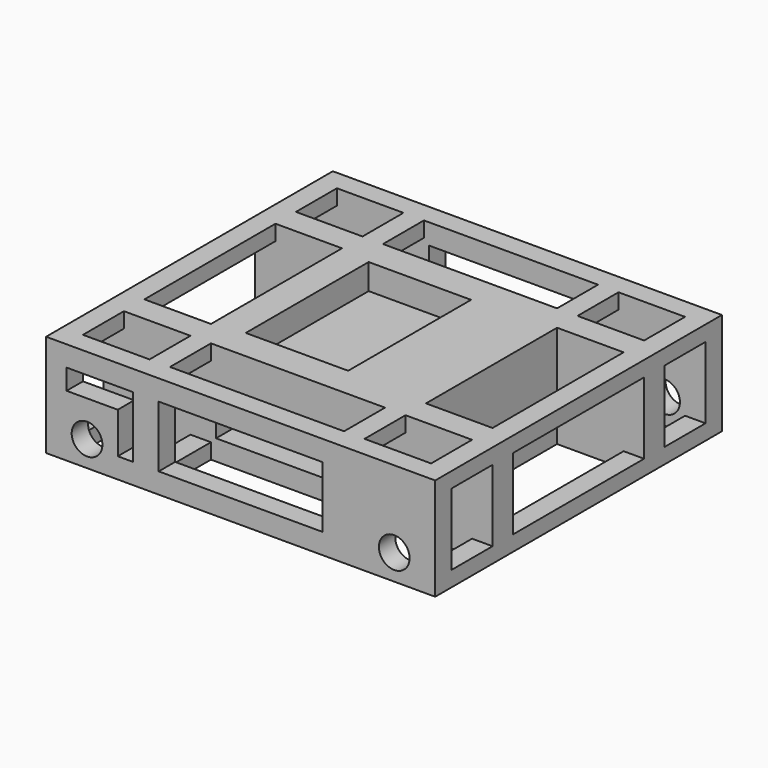
from build123d import *

# Parameters (mm, degrees)
F0_W      = 380
F0_H      = 350
F1_DEPTH  = 100
F2_W      = 170
F2_H      = 50
F2_W_2    = 65
F2_H_2    = 160
F3_DEPTH  = 100.001
F4_W      = 50
F4_H      = 70
F4_W_2    = 160
F5_DEPTH  = 380.001
F7_R      = 15
F8_DEPTH  = 25
F9_R      = 15
F10_DEPTH = 25
F11_W     = 160
F11_H     = 60
F12_DEPTH = 25
F13_W     = 160
F13_H     = 60
F14_DEPTH = 25
F15_W     = 160
F15_H     = 160
F16_DEPTH = 25
F17_W     = 210
F17_H     = 210
F18_DEPTH = 40
F19_W     = 100
F19_H     = 150
F20_DEPTH = 25
F21_W     = 160
F21_H     = 25
F22_DEPTH = 350.001
F24_DEPTH = 25


with BuildPart() as f1:
    # F0 (on Top) → F1 (new body)
    with BuildSketch(Plane.XY):
        Rectangle(F0_W, F0_H)
    extrude(amount=F1_DEPTH)

    # F2 (on face) → F3 (cut, through all)
    with BuildSketch(Plane.XY.offset(100)):
        with Locations((0, 130)):
            Rectangle(F2_W, F2_H)
        with Locations((137.5, 130)):
            Rectangle(F2_W_2, F2_H)
        with Locations((137.5, 0)):
            Rectangle(F2_W_2, F2_H_2)
        with Locations((137.5, -130)):
            Rectangle(F2_W_2, F2_H)
        with Locations((0, -130)):
            Rectangle(F2_W, F2_H)
        with Locations((-137.5, -130)):
            Rectangle(F2_W_2, F2_H)
        with Locations((-137.5, 0)):
            Rectangle(F2_W_2, F2_H_2)
        with Locations((-137.5, 130)):
            Rectangle(F2_W_2, F2_H)
    extrude(amount=-F3_DEPTH, mode=Mode.SUBTRACT)

    # F4 (on face) → F5 (cut, through all)
    with BuildSketch(Plane.YZ.offset(190)):
        with Locations((-130, 50)):
            Rectangle(F4_W, F4_H)
        with Locations((0, 50)):
            Rectangle(F4_W_2, F4_H)
        with Locations((130, 50)):
            Rectangle(F4_W, F4_H)
    extrude(amount=-F5_DEPTH, mode=Mode.SUBTRACT)

    # F7 (on face) → F8 (cut)
    with BuildSketch(Plane.XZ.offset(175)):
        with Locations((-150, 25)):
            Circle(F7_R)
        with Locations((150, 25)):
            Circle(F7_R)
    extrude(amount=-F8_DEPTH, mode=Mode.SUBTRACT)

    # F9 (on face) → F10 (cut)
    with BuildSketch(Plane(origin=(0, 175, 0), x_dir=(-1, 0, 0), z_dir=(0, 1, 0))):
        with Locations((-150, 25)):
            Circle(F9_R)
        with Locations((150, 25)):
            Circle(F9_R)
    extrude(amount=-F10_DEPTH, mode=Mode.SUBTRACT)

    # F11 (on face) → F12 (cut)
    with BuildSketch(Plane(origin=(0, 175, 0), x_dir=(-1, 0, 0), z_dir=(0, 1, 0))):
        with Locations((0, 50)):
            Rectangle(F11_W, F11_H)
    extrude(amount=-F12_DEPTH, mode=Mode.SUBTRACT)

    # F13 (on face) → F14 (cut)
    with BuildSketch(Plane.XZ.offset(175)):
        with Locations((0, 50)):
            Rectangle(F13_W, F13_H)
    extrude(amount=-F14_DEPTH, mode=Mode.SUBTRACT)

    # F15 (on face) → F16 (cut)
    with BuildSketch(Plane(origin=(0, 0, 0), x_dir=(1, 0, 0), z_dir=(0, 0, -1))):
        Rectangle(F15_W, F15_H)
    extrude(amount=-F16_DEPTH, mode=Mode.SUBTRACT)

    # F17 (on face) → F18 (join)
    with BuildSketch(Plane(origin=(0, 0, 85), x_dir=(1, 0, 0), z_dir=(0, 0, -1))):
        Rectangle(F17_W, F17_H)
    extrude(amount=F18_DEPTH)

    # F19 (on face) → F20 (cut)
    with BuildSketch(Plane.XY.offset(100)):
        with Locations((-25, 0)):
            Rectangle(F19_W, F19_H)
    extrude(amount=-F20_DEPTH, mode=Mode.SUBTRACT)

    # F21 (on face) → F22 (cut, through all)
    with BuildSketch(Plane(origin=(0, 175, 0), x_dir=(-1, 0, 0), z_dir=(0, 1, 0))):
        with Locations((0, 32.5)):
            Rectangle(F21_W, F21_H)
    extrude(amount=-F22_DEPTH, mode=Mode.SUBTRACT)

    # F23 (on face) → F24 (cut)
    with BuildSketch(Plane.XZ.offset(175)):
        Polygon((-105, 80), (-170, 80), (-170, 60), (-120, 60), (-120, 20), (-105, 20), align=None)
    extrude(amount=-F24_DEPTH, mode=Mode.SUBTRACT)


solid = f1.part
